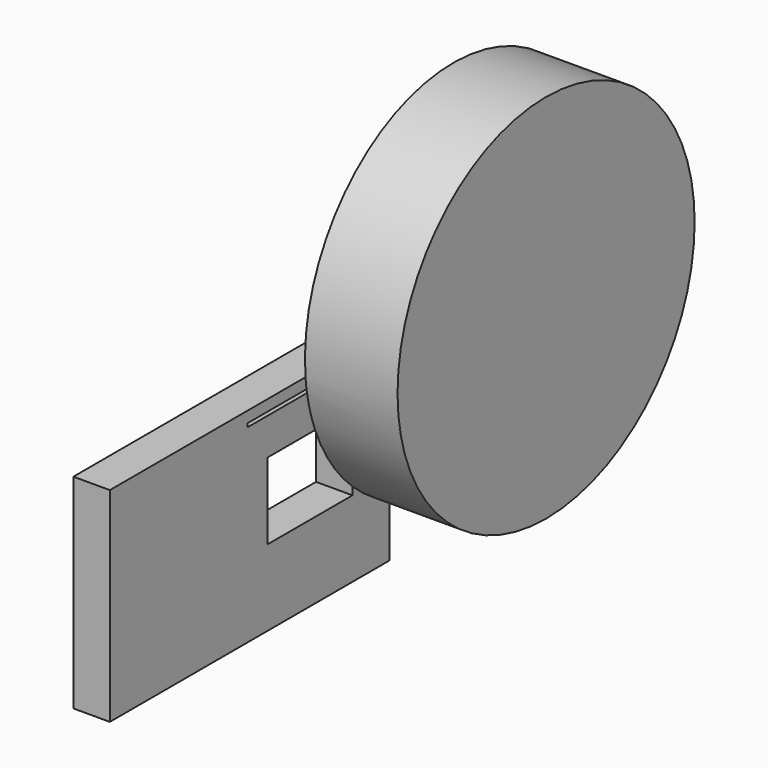
from build123d import *

# Parameters (mm, degrees)
F2_DEPTH  = 10
F3_W      = 29.145509
F3_H      = 20.968225
F4_DEPTH  = 25.4
F5_R      = 50.931249
F6_DEPTH  = 25.4
F6_FACE_R = 50.931249
F7_DEPTH  = 25


with BuildPart() as f2:
    # F0 (on Right) → F2 (new body)
    with BuildSketch(Plane.YZ):
        Polygon((-16.064236, 31.052269), (-16.064236, 32.037951), (32.617681, 32.037951), (32.617681, 35.078097), (-63.268401, 35.078097), (-63.268401, -20.898964), (32.617681, -20.898964), (32.617681, 31.052269), align=None)
    extrude(amount=-F2_DEPTH)

    # F3 (on face) → F4 (cut)
    with BuildSketch(Plane(origin=(-10, 0, 0), x_dir=(0, -1, 0), z_dir=(-1, 0, 0))):
        with Locations((-5.355574, 10.484113)):
            Rectangle(F3_W, F3_H)
    extrude(amount=-F4_DEPTH, mode=Mode.SUBTRACT)

    # F5 (on Right) → F6 (join)
    with BuildSketch(Plane.YZ):
        with Locations((54.566488, 39.468978)):
            Circle(F5_R)
    extrude(amount=F6_DEPTH)

    # F6_face (on face) → F7 (join)
    with BuildSketch(Plane(origin=(25.4, 54.566488, 39.468978), x_dir=(0, 1, 0), z_dir=(1, 0, 0))):
        Circle(F6_FACE_R)
    extrude(amount=-F7_DEPTH)


solid = f2.part
